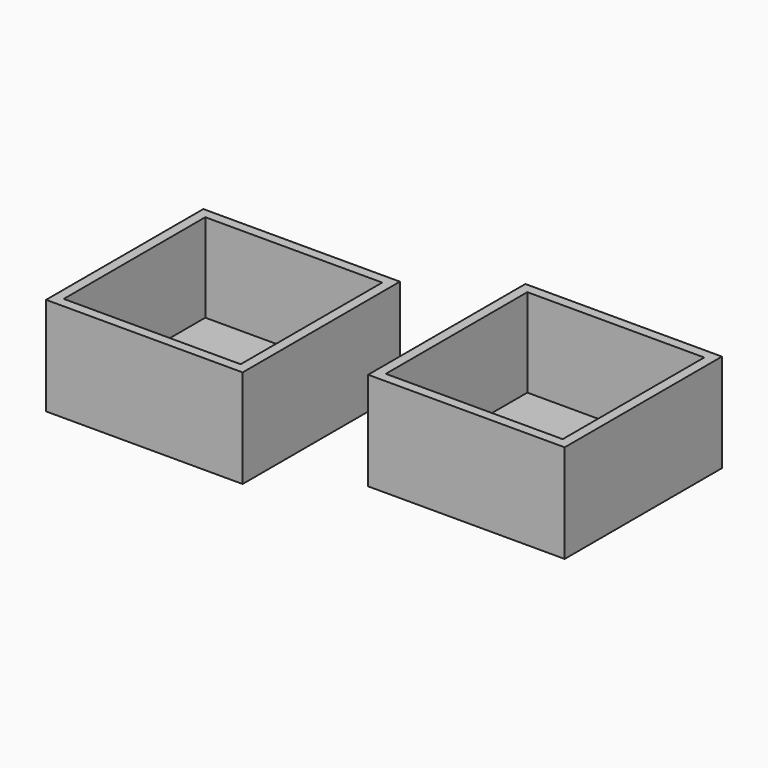
from build123d import *

# Parameters (mm, degrees)
F0_W     = 50.8
F0_H     = 50.8
F2_DEPTH = 25.4
F1_W     = 50.8
F1_H     = 50.8
F3_DEPTH = 25.4
F4_T     = -2.54
F4_2_T   = -2.54


with BuildPart() as f2:
    # F0 (on Top) → F2 (new body)
    with BuildSketch(Plane.XY):
        with Locations((-42.293565, 45.961652)):
            Rectangle(F0_W, F0_H)
    extrude(amount=F2_DEPTH)

    # F4#2
    f4_2_openings = [f2.faces().sort_by_distance(p)[0] for p in [
        (-42.293565, 45.961652, 25.4),
    ]]
    offset(amount=F4_2_T, openings=f4_2_openings)


with BuildPart() as f3:
    # F1 (on Top) → F3 (new body)
    with BuildSketch(Plane.XY):
        with Locations((28.912621, 60.99228)):
            Rectangle(F1_W, F1_H)
    extrude(amount=F3_DEPTH)

    # F4
    f4_openings = [f3.faces().sort_by_distance(p)[0] for p in [
        (28.912621, 60.99228, 25.4),
    ]]
    offset(amount=F4_T, openings=f4_openings)


solid = Compound([f2.part, f3.part])
